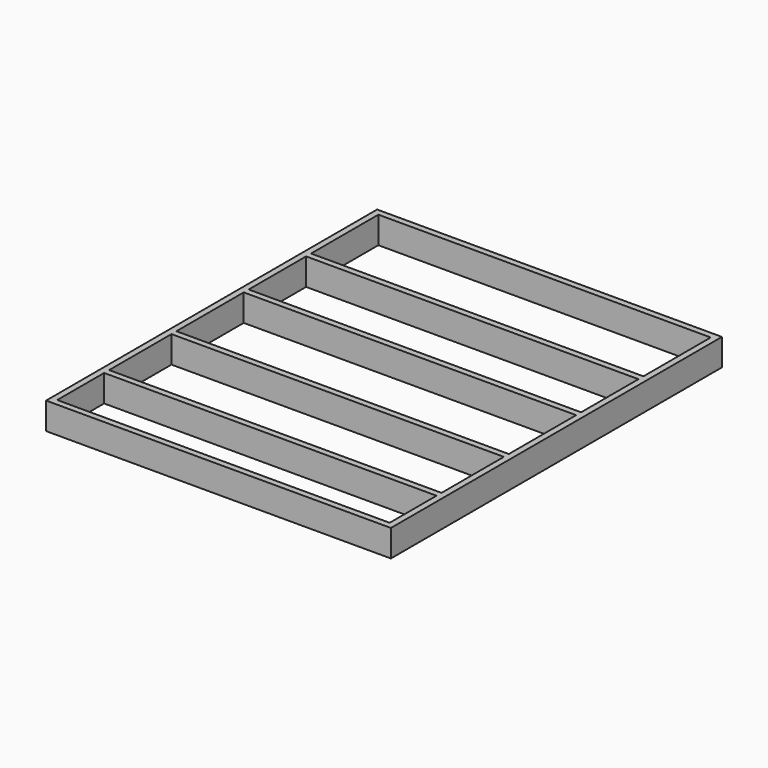
from build123d import *

# Parameters (mm, degrees)
F0_W     = 2500
F0_H     = 3000
F0_W_2   = 2410
F0_H_2   = 424.999999
F0_H_3   = 565.000044
F0_H_4   = 609.999957
F0_H_5   = 520.000043
F1_DEPTH = 195


with BuildPart() as f1:
    # F0 (on Top) → F1 (new body)
    with BuildSketch(Plane.XY):
        with Locations((1250, 1500)):
            Rectangle(F0_W, F0_H)
        with Locations((1250, 257.5)):
            Rectangle(F0_W_2, F0_H_2, mode=Mode.SUBTRACT)
        with Locations((1250, 797.500021)):
            Rectangle(F0_W_2, F0_H_3, mode=Mode.SUBTRACT)
        with Locations((1250, 1430.000022)):
            Rectangle(F0_W_2, F0_H_4, mode=Mode.SUBTRACT)
        with Locations((1250, 2040.000022)):
            Rectangle(F0_W_2, F0_H_5, mode=Mode.SUBTRACT)
        with Locations((1250, 2650.000022)):
            Rectangle(F0_W_2, F0_H_4, mode=Mode.SUBTRACT)
    extrude(amount=F1_DEPTH)


solid = f1.part
